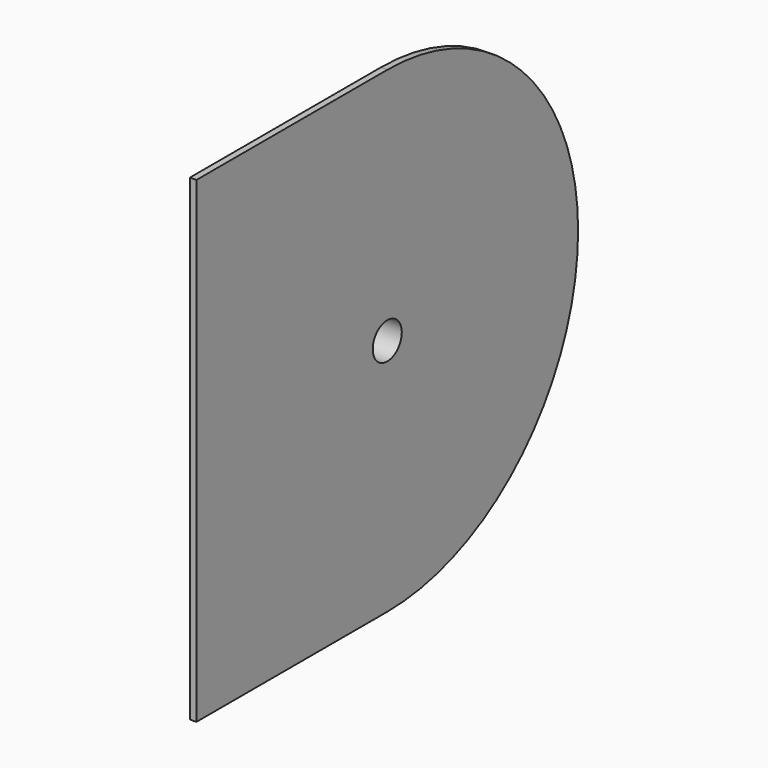
from build123d import *

# Parameters (mm, degrees)
F1_DEPTH = 0.762
F2_R     = 2.921
F3_DEPTH = 6.35
F4_R     = 2.12725
F5_DEPTH = 5.5245


with BuildPart() as f1:
    # F0 (on Right) → F1 (new body)
    with BuildSketch(Plane.YZ):
        with BuildLine():
            Line((-27.94, -27.94), (0, -27.94))
            ThreePointArc((0, -27.94), (27.94, 0), (0, 27.94))
            Line((0, 27.94), (-27.94, 27.94))
            Line((-27.94, 27.94), (-27.94, -27.94))
        make_face()
    extrude(amount=F1_DEPTH)

    # F2 (on face) → F3 (join)
    with BuildSketch(Plane(origin=(0, 0, 0), x_dir=(0, -1, 0), z_dir=(-1, 0, 0))):
        Circle(F2_R)
    extrude(amount=F3_DEPTH)

    # F4 (on face) → F5 (cut)
    with BuildSketch(Plane.YZ.offset(0.762)):
        Circle(F4_R)
    extrude(amount=-F5_DEPTH, mode=Mode.SUBTRACT)


solid = f1.part
